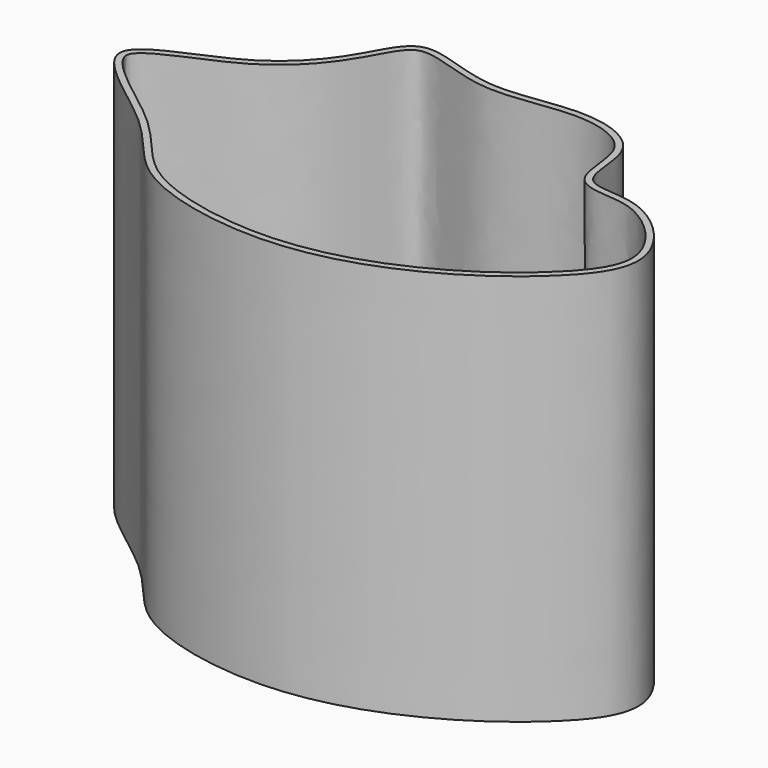
from build123d import *

# Parameters (mm, degrees)
F1_DEPTH = 152.4
F2_T     = -2.54


with BuildPart() as f1:
    # F0 (on Top) → F1 (new body)
    with BuildSketch(Plane.XY):
        with BuildLine():
            add(Edge.make_bspline(
                [(-50.8, 50.8), (-46.8857761694, 57.5762540904), (-40.6747797537, 72.6956011541), (-8.3722710593, 54.6311200837), (25.3143665582, 65.8493873304), (55.9763416075, 55.1988950064), (51.0831508648, 24.134039145), (78.5614550414, 30.7203429166), (108.1109428352, -0.0830848261), (87.6685823476, -28.0987791672), (51.1784720355, -53.5943082523), (1.6071097718, -68.0551760404), (-55.4525701105, -54.9766720481), (-70.166843997, -25.2058457431), (-127.4804010227, 8.4833156396), (-71.1284051412, 22.9233131911), (-56.1271505113, 41.5777053626), (-50.8, 50.8)],
                knots=[0, 0, 0, 0, 0.0504260998, 0.1126247268, 0.18185285, 0.2407535358, 0.293767998, 0.3457534774, 0.4132039791, 0.4740784847, 0.550539034, 0.6333551659, 0.7161712979, 0.7847998269, 0.8613705654, 0.9313714711, 1, 1, 1, 1], degree=3))
        make_face()
    extrude(amount=F1_DEPTH)

    # F2
    f2_openings = [f1.faces().sort_by_distance(p)[0] for p in [
        (-0.326089, -0.352117, 152.4),
    ]]
    offset(amount=F2_T, openings=f2_openings)


solid = f1.part
